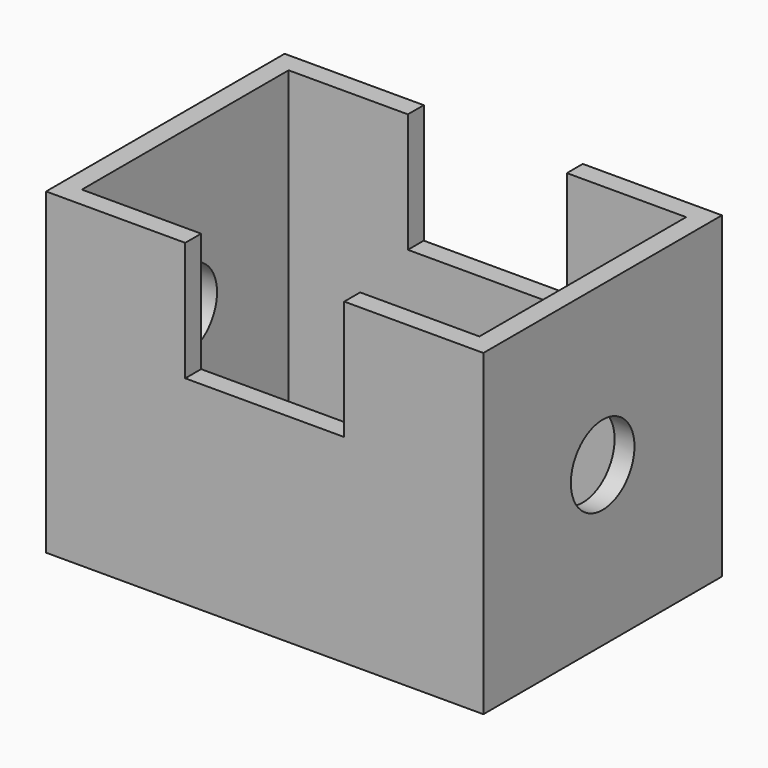
from build123d import *

# Parameters (mm, degrees)
F0_W     = 139.7
F0_H     = 95.25
F1_DEPTH = 101.6
F2_T     = -6.35
F3_W     = 50.8
F3_H     = 38.1
F4_DEPTH = 101.6
F5_R     = 12.7
F6_DEPTH = 177.8


with BuildPart() as f1:
    # F0 (on Top) → F1 (new body)
    with BuildSketch(Plane.XY):
        Rectangle(F0_W, F0_H)
    extrude(amount=F1_DEPTH)

    # F2
    f2_openings = [f1.faces().sort_by_distance(p)[0] for p in [
        (0, 0, 101.6),
    ]]
    offset(amount=F2_T, openings=f2_openings)

    # F3 (on face) → F4 (cut)
    with BuildSketch(Plane.XZ.offset(47.625)):
        with Locations((0, 82.55)):
            Rectangle(F3_W, F3_H)
    extrude(amount=-F4_DEPTH, mode=Mode.SUBTRACT)

    # F5 (on face) → F6 (cut)
    with BuildSketch(Plane.YZ.offset(69.85)):
        with Locations((0, 50.8)):
            Circle(F5_R)
    extrude(amount=-F6_DEPTH, mode=Mode.SUBTRACT)


solid = f1.part
